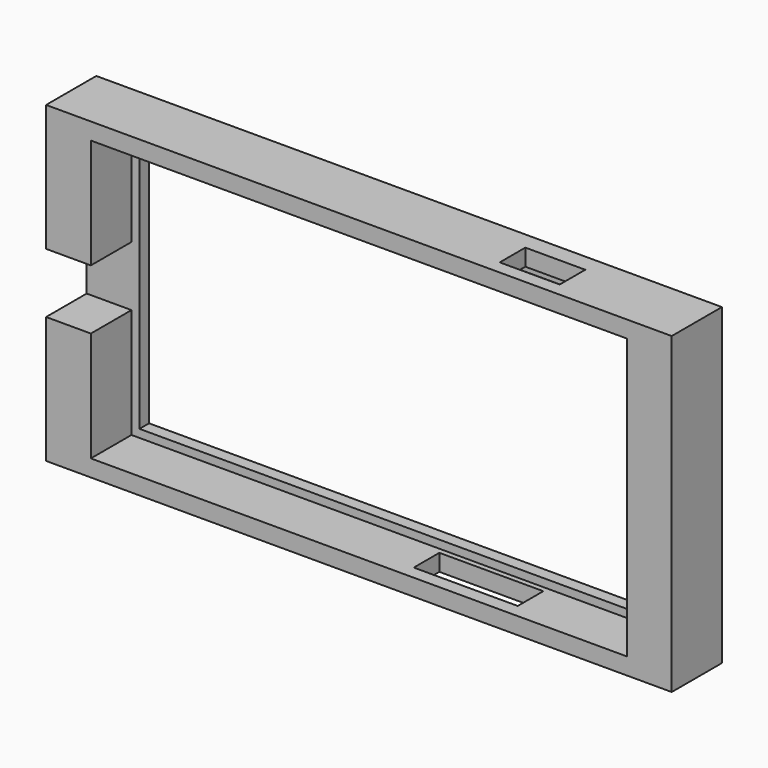
from build123d import *

# Parameters (mm, degrees)
F0_W          = 130.1
F0_H          = 2
F1_DEPTH      = 3
F0_W_2        = 142.5
F0_H_2        = 78.4
F0_W_3        = 7
F2_DEPTH      = 3
F2_DEPTH_BACK = 12.7
F3_W          = 5.6
F3_H          = 7.5
F4_DEPTH      = 12.7
F6_DEPTH      = 4.201
F8_DEPTH      = 4.201
F9_DEPTH      = 2
F10_DEPTH     = 2


with BuildPart() as f1:
    # F0 (on Front) → F1 (new body)
    with BuildSketch(Plane.XZ):
        Polygon((67.05, 35), (65.05, 35), (65.05, 33), (65.05, -33), (65.05, -35), (67.05, -35), align=None)
        with Locations((0, 34)):
            Rectangle(F0_W, F0_H)
        Polygon((-65.05, 35), (-67.05, 35), (-67.05, -35), (-65.05, -35), (-65.05, -33), (-65.05, 33), align=None)
        with Locations((0, -34)):
            Rectangle(F0_W, F0_H)
    extrude(amount=-F1_DEPTH)

    # F0 (on Front) → F2 (join, two sides)
    with BuildSketch(Plane.XZ) as f2_sk:
        Rectangle(F0_W_2, F0_H_2)
        Polygon((-67.05, -35), (-67.05, 35), (-65.05, 35), (65.05, 35), (67.05, 35), (67.05, -35), (65.05, -35), (-65.05, -35), align=None, mode=Mode.SUBTRACT)
        with Locations((-74.75, 0)):
            Rectangle(F0_W_3, F0_H_2)
        with Locations((74.75, 0)):
            Rectangle(F0_W_3, F0_H_2)
    extrude(amount=-F2_DEPTH)
    extrude(f2_sk.sketch, amount=F2_DEPTH_BACK)

    # F3 (on face) → F4 (cut)
    with BuildSketch(Plane.XZ.offset(12.7)):
        with Locations((-75.45, 3.75)):
            Rectangle(F3_W, F3_H)
        with Locations((-69.85, 3.75)):
            Rectangle(F3_W, F3_H)
        with Locations((-69.85, -3.75)):
            Rectangle(F3_W, F3_H)
        with Locations((-75.45, -3.75)):
            Rectangle(F3_W, F3_H)
    extrude(amount=-F4_DEPTH, mode=Mode.SUBTRACT)

    # F5 (on face) → F6 (cut, through all)
    with BuildSketch(Plane(origin=(0, 0, 35), x_dir=(1, 0, 0), z_dir=(0, 0, -1))):
        Polygon((47.55, 3.35), (47.55, 6.35), (47.55, 9.35), (32.55, 9.35), (32.55, 3.35), align=None)
    extrude(amount=-F6_DEPTH, mode=Mode.SUBTRACT)

    # F7 (on face) → F8 (cut, through all)
    with BuildSketch(Plane.XY.offset(-35)):
        Polygon((37.05, -9.35), (37.05, -6.35), (37.05, -3.35), (11.05, -3.35), (11.05, -9.35), align=None)
    extrude(amount=-F8_DEPTH, mode=Mode.SUBTRACT)

    # F9 (cut): a face of the model
    f9_faces = [f1.faces().sort_by_distance(p)[0] for p in [
        (24.05, -3.35, -37.1),
    ]]
    extrude(f9_faces, amount=-F9_DEPTH, mode=Mode.SUBTRACT)

    # F10 (cut): a face of the model
    f10_faces = [f1.faces().sort_by_distance(p)[0] for p in [
        (40.05, -3.35, 37.1),
    ]]
    extrude(f10_faces, amount=-F10_DEPTH, mode=Mode.SUBTRACT)


solid = f1.part
